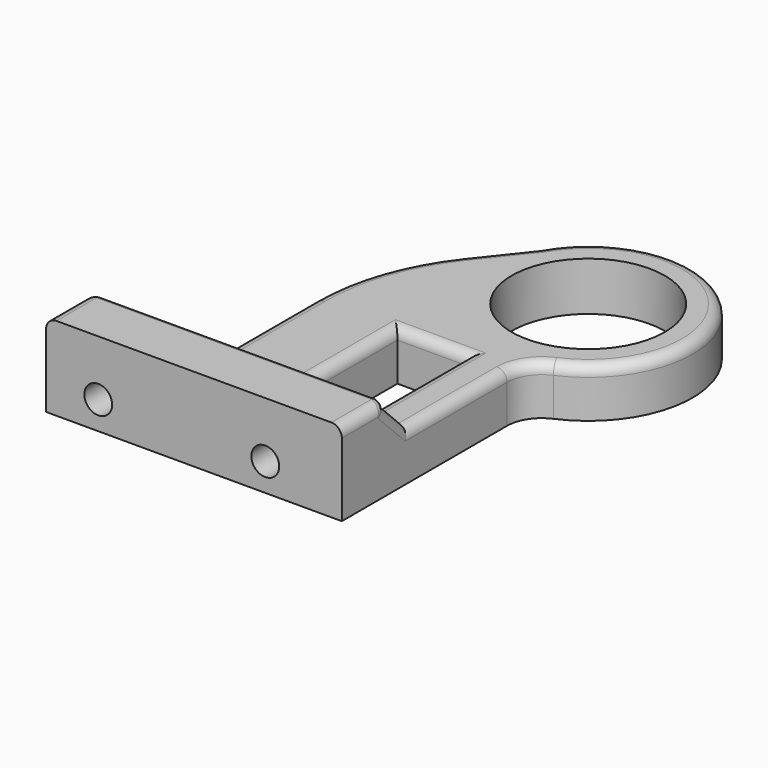
from build123d import *

# Parameters (mm, degrees)
SKETCH_R        = 11
PAD_DEPTH       = 7
PAD001_DEPTH    = 5
SKETCH002_R     = 2
POCKET_DEPTH    = 9
POCKET002_DEPTH = 20
FILLET_R        = 30
FILLET001_R     = 5
SKETCH005_W     = 10
SKETCH005_H     = 22
POCKET003_DEPTH = 15
CHAMFER_SIZE    = 4
FILLET002_R     = 0.8
FILLET003_R     = 1.5
FILLET004_R     = 1.5
FILLET005_R     = 1.5


with BuildPart() as part:
    # Sketch → Pad (new body)
    with BuildSketch(Plane.XY):
        with BuildLine():
            Line((-15, -48), (15, -48))
            Line((15, -48), (15, -14.696938))
            ThreePointArc((15, -14.696938), (24.166051, 8.774235), (-0.998465, 7.48598))
            Line((-45, -48), (-0.998465, 7.48598))
            Line((-45, -48), (-15, -48))
        make_face()
        with Locations((12, 0)):
            Circle(SKETCH_R, mode=Mode.SUBTRACT)
    extrude(amount=PAD_DEPTH)

    # Sketch001 (on Face6 of Pad) → Pad001 (join)
    with BuildSketch(Plane.XY.offset(7)):
        Polygon((-45, -48), (-40.385913, -40), (15, -40), (15, -48), align=None)
    extrude(amount=PAD001_DEPTH)

    # Sketch002 (on Face11 of Pad001) → Pocket (cut)
    with BuildSketch(Plane.XZ.offset(48)):
        with Locations((-20, 4)):
            Circle(SKETCH002_R)
        with Locations((4, 4)):
            Circle(SKETCH002_R)
    extrude(amount=-POCKET_DEPTH, mode=Mode.SUBTRACT)

    # Sketch004 → Pocket002 (cut)
    with BuildSketch(Plane.XY.offset(12)):
        Polygon((-27.492516, -50.55183), (-27.492516, -40), (-12.942459, -40), (-12.942459, 0), (-27.492525, 0), (-27.492525, 11.934225), (-46.836239, 11.934225), (-46.836239, -50.55183), align=None)
    extrude(amount=-POCKET002_DEPTH, mode=Mode.SUBTRACT)

    # Fillet
    fillet_edges = [part.edges().sort_by_distance(p)[0] for p in [
        (-12.942459, -7.575408, 3.5),
    ]]
    fillet(fillet_edges, radius=FILLET_R)

    # Fillet001
    fillet001_edges = [part.edges().sort_by_distance(p)[0] for p in [
        (15, -14.696938, 3.5),
    ]]
    fillet(fillet001_edges, radius=FILLET001_R)

    # Sketch005 (on Face12 of Fillet001) → Pocket003 (cut)
    with BuildSketch(Plane.XY.offset(7)):
        with Locations((3.99969, -29.002266)):
            Rectangle(SKETCH005_W, SKETCH005_H)
    extrude(amount=-POCKET003_DEPTH, mode=Mode.SUBTRACT)

    # Chamfer
    chamfer_edges = [part.edges().sort_by_distance(p)[0] for p in [
        (-6.971384, -40, 7),
        (11.999845, -40, 7),
    ]]
    chamfer(chamfer_edges, length=CHAMFER_SIZE)

    # Fillet002
    fillet002_edges = [part.edges().sort_by_distance(p)[0] for p in [
        (-6.246258, -40, 12),
    ]]
    fillet(fillet002_edges, radius=FILLET002_R)

    # Fillet003
    fillet003_edges = [part.edges().sort_by_distance(p)[0] for p in [
        (-27.492516, -44.4, 12),
        (-27.492516, -40.234315, 11.765685),
        (-27.492516, -40, 5.6),
    ]]
    fillet(fillet003_edges, radius=FILLET003_R)

    # Fillet004
    fillet004_edges = [part.edges().sort_by_distance(p)[0] for p in [
        (-12.942459, -38, 9),
        (-12.942459, -27.01348, 7),
        (-11.272446, -8.157216, 7),
        (-3.7234, 4.049834, 7),
        (23.17865, 10.001889, 7),
        (15.8167, -15.59169, 7),
        (15, -27.165151, 7),
        (15, -38, 9),
        (15, -40, 11.1),
        (15, -40.234315, 11.765685),
        (15, -44.4, 12),
    ]]
    fillet(fillet004_edges, radius=FILLET004_R)

    # Fillet005
    fillet005_edges = [part.edges().sort_by_distance(p)[0] for p in [
        (-1.00031, -38, 9),
        (-1.00031, -27.001133, 7),
        (3.99969, -18.002266, 7),
        (8.99969, -27.001133, 7),
        (8.99969, -38, 9),
    ]]
    fillet(fillet005_edges, radius=FILLET005_R)


solid = part.part
